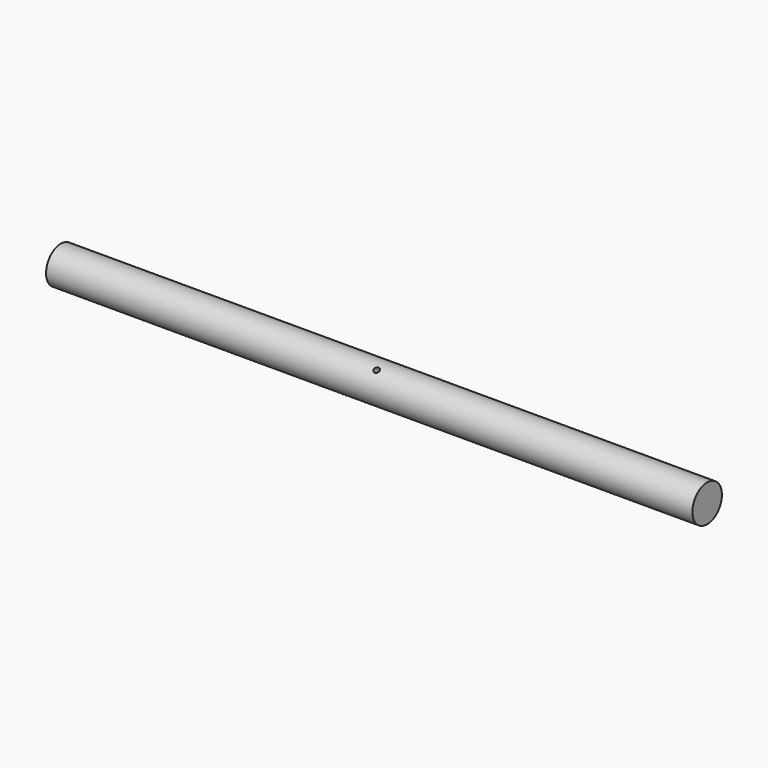
from build123d import *

# Parameters (mm, degrees)
F1_DEPTH = 350
F2_R     = 11
F3_DEPTH = 25.4
F5_R     = 3
F6_DEPTH = 47.3215082123


with BuildPart() as f1:
    # F0 (on Right) → F1 (new body, symmetric)
    with BuildSketch(Plane.YZ):
        with BuildLine():
            ThreePointArc((-10, 17.3205080757), (-10, -17.3205080757), (20, 0))
            ThreePointArc((20, 0), (10, 17.3205080757), (-10, 17.3205080757))
        make_face()
    extrude(amount=F1_DEPTH, both=True)

    # F2 (on Top) → F3 (cut)
    with BuildSketch(Plane.XY):
        with Locations((-260, 0)):
            Circle(F2_R)
        with Locations((260, 0)):
            Circle(F2_R)
    extrude(amount=-F3_DEPTH, mode=Mode.SUBTRACT)

    # F5 (on face) → F6 (cut, through all)
    with BuildSketch(Plane(origin=(0, -10, 17.3205080757), x_dir=(1, 0, 0), z_dir=(0, 0.5, -0.8660254038))):
        Circle(F5_R)
    extrude(amount=F6_DEPTH, mode=Mode.SUBTRACT)


solid = f1.part
